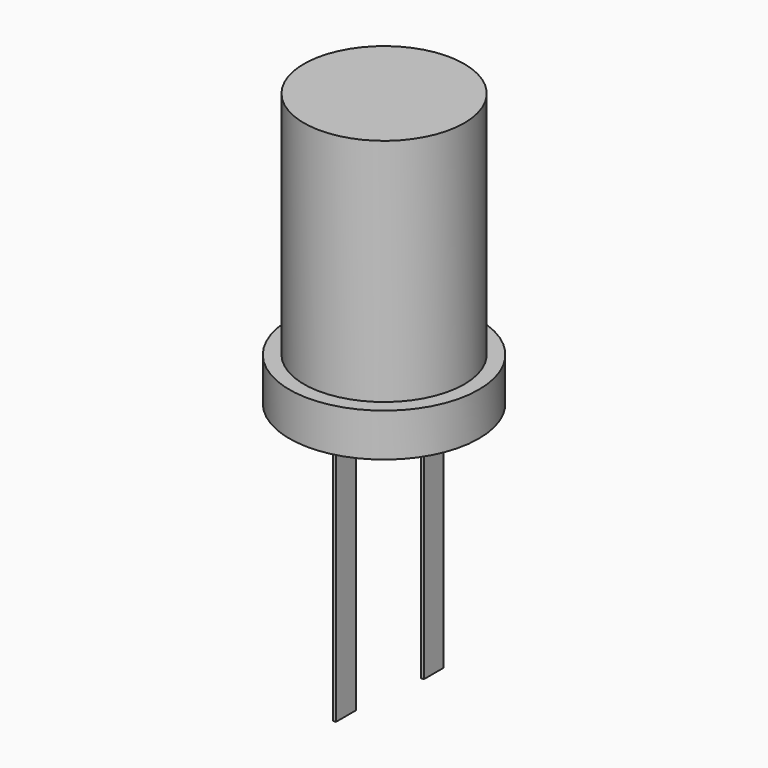
from build123d import *

# Parameters (mm, degrees)
F0_R     = 8.37382
F1_DEPTH = 3.81
F2_R     = 7.084201
F3_DEPTH = 20.32
F4_W     = 2.192053
F4_H     = 23.016576
F5_DEPTH = 0.254
F6_W     = 2.192054
F6_H     = 22.390274
F7_DEPTH = 0.254


with BuildPart() as f1:
    # F0 (on Top) → F1 (new body)
    with BuildSketch(Plane.XY):
        Circle(F0_R)
    extrude(amount=F1_DEPTH)

    # F2 (on face) → F3 (join)
    with BuildSketch(Plane.XY.offset(3.81)):
        Circle(F2_R)
    extrude(amount=F3_DEPTH)

    # F4 (on Right) → F5 (join)
    with BuildSketch(Plane.YZ):
        with Locations((5.166987, -11.508288)):
            Rectangle(F4_W, F4_H)
    extrude(amount=F5_DEPTH)

    # F6 (on Right) → F7 (join)
    with BuildSketch(Plane.YZ):
        with Locations((-4.540686, -11.195137)):
            Rectangle(F6_W, F6_H)
    extrude(amount=F7_DEPTH)


solid = f1.part
